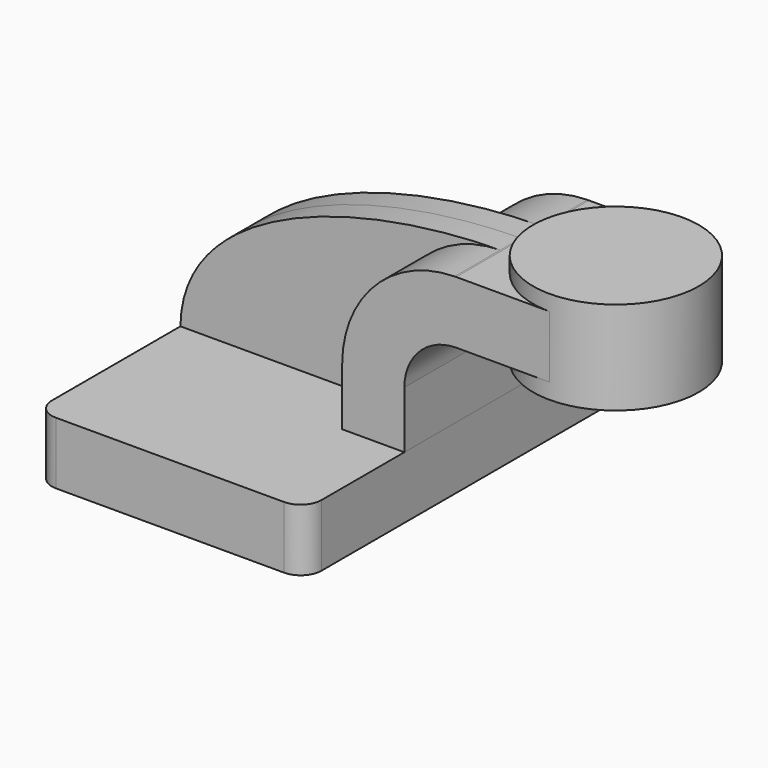
from build123d import *

# Parameters (mm, degrees)
F1_DEPTH = 63.5
F0_W     = 25.4
F0_H     = 19.05
F2_DEPTH = 25.4
F3_DEPTH = 7.9375
F5_R     = 6.35


with BuildPart() as f1:
    # F0 (on Front) → F1 (new body, symmetric)
    with BuildSketch(Plane.XZ):
        Polygon((-41.275, 9.525), (-41.275, -9.525), (41.275, -9.525), (41.275, 9.525), (22.225, 9.525), align=None)
    extrude(amount=F1_DEPTH, both=True)

    # F5
    f5_edges = [f1.edges().sort_by_distance(p)[0] for p in [
        (41.275, -63.5, 0),
        (41.275, 63.5, 0),
        (-41.275, 63.5, 0),
        (-41.275, -63.5, 0),
    ]]
    fillet(f5_edges, radius=F5_R)


with BuildPart() as f2:
    # F0 (on Front) → F2 (new body, symmetric)
    with BuildSketch(Plane.XZ):
        with BuildLine():
            Line((22.225, 9.525), (41.275, 9.525))
            Line((41.275, 9.525), (41.275, 27.0002))
            ThreePointArc((41.275, 27.0002), (45.9246798487, 38.2255201513), (57.15, 42.8752))
            Line((57.15, 42.8752), (60.325, 42.8752))
            Line((60.325, 42.8752), (60.325, 61.9252))
            Line((60.325, 61.9252), (57.15, 61.9252))
            add(Edge.make_bspline(
                [(56.6686169782, 61.9218823104), (56.8291375068, 61.9231924498), (56.9895992867, 61.9242983436), (57.15, 61.9252)],
                knots=[111.1196193443, 111.1196193443, 111.1196193443, 111.1196193443, 111.5045361635, 111.5045361635, 111.5045361635, 111.5045361635], degree=3))
            ThreePointArc((56.6686169782, 61.9218823104), (32.2846835227, 51.5251191942), (22.225, 27.0002))
            Line((22.225, 27.0002), (22.225, 9.525))
        make_face()
        with Locations((73.025, 52.4002)):
            Rectangle(F0_W, F0_H)
    extrude(amount=F2_DEPTH, both=True)


with BuildPart() as f3:
    # F0 (on Front) → F3 (new body, symmetric)
    with BuildSketch(Plane.XZ):
        with BuildLine():
            add(Edge.make_bspline(
                [(-41.275, 9.525), (-40.9070964811, 44.1438460137), (10.3287868037, 61.5436650302), (56.6686169782, 61.9218823104)],
                knots=[0, 0, 0, 0, 111.1196193443, 111.1196193443, 111.1196193443, 111.1196193443], degree=3))
            Line((-41.275, 9.525), (22.225, 9.525))
            Line((22.225, 9.525), (22.225, 27.0002))
            ThreePointArc((22.225, 27.0002), (32.2846835227, 51.5251191942), (56.6686169782, 61.9218823104))
        make_face()
    extrude(amount=F3_DEPTH, both=True)


with BuildPart() as f4:
    # F0 (on Front) → F4 (revolve)
    with BuildSketch(Plane.XZ):
        Polygon((85.725, 66.675), (85.725, 61.9252), (85.725, 42.8752), (85.725, 38.1), (111.125, 38.1), (111.125, 66.675), align=None)
    revolve(axis=Axis((85.725, 0, 52.3875), (0, 0, 1)))


solid = Compound([f1.part, f2.part, f3.part, f4.part])
